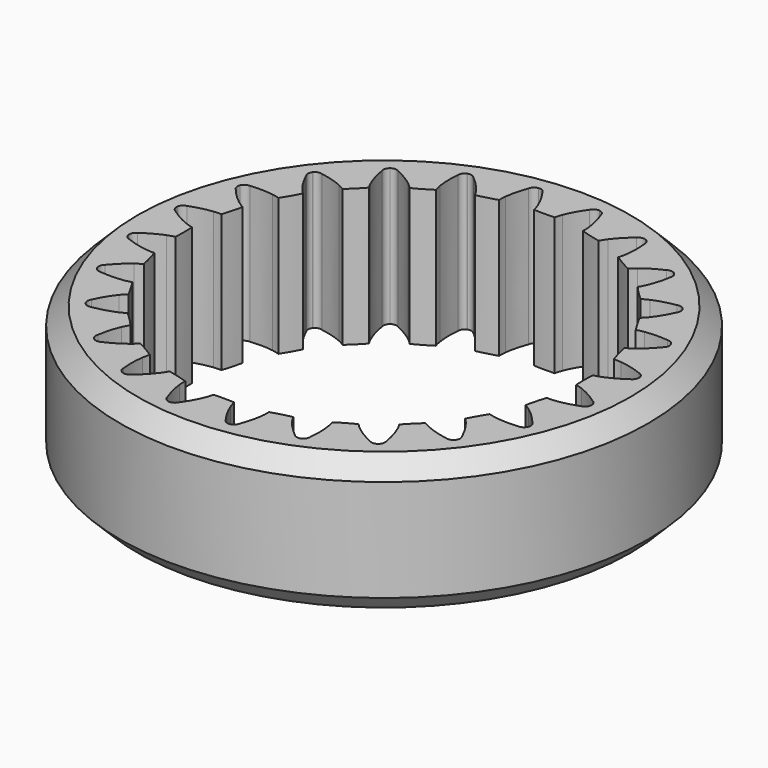
from build123d import *

# Parameters (mm, degrees)
SKETCH_R        = 15
PAD_DEPTH       = 7.8
POCKET_DEPTH    = 7.801
CHAMFER_SIZE    = 1
CHAMFER001_SIZE = 1


with BuildPart() as part:
    # Sketch → Pad (new body)
    with BuildSketch(Plane.XY):
        Circle(SKETCH_R)
    extrude(amount=PAD_DEPTH)

    # InvoluteGear → Pocket (cut, through all)
    with BuildSketch(Plane.XY):
        with BuildLine():
            add(Edge.make_bspline(
                [(12.931293, -1.341913), (12.47391, -1.012998), (12.085731, -0.822377), (11.798948, -0.712675)],
                knots=[0, 0, 0, 0, 1, 1, 1, 1], degree=3))
            add(Edge.make_bspline(
                [(11.798948, -0.712675), (11.61523, -0.642556), (11.475687, -0.606588), (11.384942, -0.588276)],
                knots=[0, 0, 0, 0, 1, 1, 1, 1], degree=3))
            ThreePointArc((11.384942, -0.588276), (11.36969, -1.8e-05), (11.384813, 0.588244))
            add(Edge.make_bspline(
                [(11.384813, 0.588244), (11.475687, 0.606588), (11.61523, 0.642556), (11.798948, 0.712675)],
                knots=[0, 0, 0, 0, 1, 1, 1, 1], degree=3))
            add(Edge.make_bspline(
                [(11.798948, 0.712675), (12.085731, 0.822377), (12.47391, 1.012998), (12.931293, 1.341913)],
                knots=[0, 0, 0, 0, 1, 1, 1, 1], degree=3))
            ThreePointArc((12.931293, 1.341913), (13.095509, 1.500619), (13.137212, 1.725152))
            ThreePointArc((13.137212, 1.725152), (13.136643, 1.729472), (13.136075, 1.733792))
            ThreePointArc((13.136075, 1.733792), (13.037679, 1.939881), (12.837983, 2.050676))
            add(Edge.make_bspline(
                [(12.837983, 2.050676), (12.311055, 2.250005), (11.886766, 2.333662), (11.581362, 2.365402)],
                knots=[0, 0, 0, 0, 1, 1, 1, 1], degree=3))
            add(Edge.make_bspline(
                [(11.581362, 2.365402), (11.385756, 2.385581), (11.241659, 2.384207), (11.149267, 2.378408)],
                knots=[0, 0, 0, 0, 1, 1, 1, 1], degree=3))
            ThreePointArc((11.149267, 2.378408), (10.982282, 2.942675), (10.844636, 3.514806))
            add(Edge.make_bspline(
                [(10.844636, 3.514806), (10.927666, 3.556045), (11.053145, 3.626905), (11.212455, 3.742183)],
                knots=[0, 0, 0, 0, 1, 1, 1, 1], degree=3))
            add(Edge.make_bspline(
                [(11.212455, 3.742183), (11.461072, 3.922373), (11.786688, 4.206966), (12.143358, 4.643054)],
                knots=[0, 0, 0, 0, 1, 1, 1, 1], degree=3))
            ThreePointArc((12.143358, 4.643054), (12.260902, 4.838854), (12.243071, 5.066529))
            ThreePointArc((12.243071, 5.066529), (12.241402, 5.070555), (12.239736, 5.074581))
            ThreePointArc((12.239736, 5.074581), (12.091353, 5.248181), (11.869785, 5.303516))
            add(Edge.make_bspline(
                [(11.869785, 5.303516), (11.309222, 5.359673), (10.877738, 5.330666), (10.574526, 5.28228)],
                knots=[0, 0, 0, 0, 1, 1, 1, 1], degree=3))
            add(Edge.make_bspline(
                [(10.574526, 5.28228), (10.380362, 5.251145), (10.24153, 5.212523), (10.153787, 5.183009)],
                knots=[0, 0, 0, 0, 1, 1, 1, 1], degree=3))
            ThreePointArc((10.153787, 5.183009), (9.846449, 5.684829), (9.565415, 6.201841))
            add(Edge.make_bspline(
                [(9.565415, 6.201841), (9.634942, 6.263164), (9.737806, 6.364085), (9.861851, 6.516668)],
                knots=[0, 0, 0, 0, 1, 1, 1, 1], degree=3))
            add(Edge.make_bspline(
                [(9.861851, 6.516668), (10.055361, 6.755065), (10.296224, 7.114237), (10.527872, 7.627778)],
                knots=[0, 0, 0, 0, 1, 1, 1, 1], degree=3))
            ThreePointArc((10.527872, 7.627778), (10.590735, 7.847329), (10.514584, 8.062632))
            ThreePointArc((10.514584, 8.062632), (10.511931, 8.066088), (10.509279, 8.069545))
            ThreePointArc((10.509279, 8.069545), (10.321021, 8.198826), (10.092681, 8.194929))
            add(Edge.make_bspline(
                [(10.092681, 8.194929), (9.536684, 8.104088), (9.12741, 7.964394), (8.847053, 7.839179)],
                knots=[0, 0, 0, 0, 1, 1, 1, 1], degree=3))
            add(Edge.make_bspline(
                [(8.847053, 7.839179), (8.667564, 7.758852), (8.543458, 7.685613), (8.466344, 7.634396)],
                knots=[0, 0, 0, 0, 1, 1, 1, 1], degree=3))
            ThreePointArc((8.466344, 7.634396), (8.039598, 8.039572), (7.634327, 8.46623))
            add(Edge.make_bspline(
                [(7.634327, 8.46623), (7.685613, 8.543458), (7.758852, 8.667564), (7.839179, 8.847053)],
                knots=[0, 0, 0, 0, 1, 1, 1, 1], degree=3))
            add(Edge.make_bspline(
                [(7.839179, 8.847053), (7.964394, 9.12741), (8.104088, 9.536684), (8.194929, 10.092681)],
                knots=[0, 0, 0, 0, 1, 1, 1, 1], degree=3))
            ThreePointArc((8.194929, 10.092681), (8.198826, 10.321021), (8.069545, 10.509279))
            ThreePointArc((8.069545, 10.509279), (8.066088, 10.511931), (8.062632, 10.514584))
            ThreePointArc((8.062632, 10.514584), (7.847329, 10.590735), (7.627778, 10.527872))
            add(Edge.make_bspline(
                [(7.627778, 10.527872), (7.114237, 10.296224), (6.755065, 10.055361), (6.516668, 9.861851)],
                knots=[0, 0, 0, 0, 1, 1, 1, 1], degree=3))
            add(Edge.make_bspline(
                [(6.516668, 9.861851), (6.364085, 9.737806), (6.263164, 9.634942), (6.201933, 9.565511)],
                knots=[0, 0, 0, 0, 1, 1, 1, 1], degree=3))
            ThreePointArc((6.201933, 9.565511), (5.684861, 9.846431), (5.182973, 10.153659))
            add(Edge.make_bspline(
                [(5.182973, 10.153659), (5.212523, 10.24153), (5.251145, 10.380362), (5.28228, 10.574526)],
                knots=[0, 0, 0, 0, 1, 1, 1, 1], degree=3))
            add(Edge.make_bspline(
                [(5.28228, 10.574526), (5.330666, 10.877738), (5.359673, 11.309222), (5.303516, 11.869785)],
                knots=[0, 0, 0, 0, 1, 1, 1, 1], degree=3))
            ThreePointArc((5.303516, 11.869785), (5.248181, 12.091353), (5.074581, 12.239736))
            ThreePointArc((5.074581, 12.239736), (5.070555, 12.241402), (5.066529, 12.243071))
            ThreePointArc((5.066529, 12.243071), (4.838854, 12.260902), (4.643054, 12.143358))
            add(Edge.make_bspline(
                [(4.643054, 12.143358), (4.206966, 11.786688), (3.922373, 11.461072), (3.742183, 11.212455)],
                knots=[0, 0, 0, 0, 1, 1, 1, 1], degree=3))
            add(Edge.make_bspline(
                [(3.742183, 11.212455), (3.626905, 11.053145), (3.556045, 10.927666), (3.514871, 10.844752)],
                knots=[0, 0, 0, 0, 1, 1, 1, 1], degree=3))
            ThreePointArc((3.514871, 10.844752), (2.94271, 10.982272), (2.378407, 11.149134))
            add(Edge.make_bspline(
                [(2.378407, 11.149134), (2.384207, 11.241659), (2.385581, 11.385756), (2.365402, 11.581362)],
                knots=[0, 0, 0, 0, 1, 1, 1, 1], degree=3))
            add(Edge.make_bspline(
                [(2.365402, 11.581362), (2.333662, 11.886766), (2.250005, 12.311055), (2.050676, 12.837983)],
                knots=[0, 0, 0, 0, 1, 1, 1, 1], degree=3))
            ThreePointArc((2.050676, 12.837983), (1.939881, 13.037679), (1.733792, 13.136075))
            ThreePointArc((1.733792, 13.136075), (1.729472, 13.136643), (1.725152, 13.137212))
            ThreePointArc((1.725152, 13.137212), (1.500619, 13.095509), (1.341913, 12.931293))
            add(Edge.make_bspline(
                [(1.341913, 12.931293), (1.012998, 12.47391), (0.822377, 12.085731), (0.712675, 11.798948)],
                knots=[0, 0, 0, 0, 1, 1, 1, 1], degree=3))
            add(Edge.make_bspline(
                [(0.712675, 11.798948), (0.642556, 11.61523), (0.606588, 11.475687), (0.588276, 11.384942)],
                knots=[0, 0, 0, 0, 1, 1, 1, 1], degree=3))
            ThreePointArc((0.588276, 11.384942), (1.8e-05, 11.36969), (-0.588244, 11.384813))
            add(Edge.make_bspline(
                [(-0.588244, 11.384813), (-0.606588, 11.475687), (-0.642556, 11.61523), (-0.712675, 11.798948)],
                knots=[0, 0, 0, 0, 1, 1, 1, 1], degree=3))
            add(Edge.make_bspline(
                [(-0.712675, 11.798948), (-0.822377, 12.085731), (-1.012998, 12.47391), (-1.341913, 12.931293)],
                knots=[0, 0, 0, 0, 1, 1, 1, 1], degree=3))
            ThreePointArc((-1.341913, 12.931293), (-1.500619, 13.095509), (-1.725152, 13.137212))
            ThreePointArc((-1.725152, 13.137212), (-1.729472, 13.136643), (-1.733792, 13.136075))
            ThreePointArc((-1.733792, 13.136075), (-1.939881, 13.037679), (-2.050676, 12.837983))
            add(Edge.make_bspline(
                [(-2.050676, 12.837983), (-2.250005, 12.311055), (-2.333662, 11.886766), (-2.365402, 11.581362)],
                knots=[0, 0, 0, 0, 1, 1, 1, 1], degree=3))
            add(Edge.make_bspline(
                [(-2.365402, 11.581362), (-2.385581, 11.385756), (-2.384207, 11.241659), (-2.378408, 11.149267)],
                knots=[0, 0, 0, 0, 1, 1, 1, 1], degree=3))
            ThreePointArc((-2.378408, 11.149267), (-2.942675, 10.982282), (-3.514806, 10.844636))
            add(Edge.make_bspline(
                [(-3.514806, 10.844636), (-3.556045, 10.927666), (-3.626905, 11.053145), (-3.742183, 11.212455)],
                knots=[0, 0, 0, 0, 1, 1, 1, 1], degree=3))
            add(Edge.make_bspline(
                [(-3.742183, 11.212455), (-3.922373, 11.461072), (-4.206966, 11.786688), (-4.643054, 12.143358)],
                knots=[0, 0, 0, 0, 1, 1, 1, 1], degree=3))
            ThreePointArc((-4.643054, 12.143358), (-4.838854, 12.260902), (-5.066529, 12.243071))
            ThreePointArc((-5.066529, 12.243071), (-5.070555, 12.241402), (-5.074581, 12.239736))
            ThreePointArc((-5.074581, 12.239736), (-5.248181, 12.091353), (-5.303516, 11.869785))
            add(Edge.make_bspline(
                [(-5.303516, 11.869785), (-5.359673, 11.309222), (-5.330666, 10.877738), (-5.28228, 10.574526)],
                knots=[0, 0, 0, 0, 1, 1, 1, 1], degree=3))
            add(Edge.make_bspline(
                [(-5.28228, 10.574526), (-5.251145, 10.380362), (-5.212523, 10.24153), (-5.183009, 10.153787)],
                knots=[0, 0, 0, 0, 1, 1, 1, 1], degree=3))
            ThreePointArc((-5.183009, 10.153787), (-5.684829, 9.846449), (-6.201841, 9.565415))
            add(Edge.make_bspline(
                [(-6.201841, 9.565415), (-6.263164, 9.634942), (-6.364085, 9.737806), (-6.516668, 9.861851)],
                knots=[0, 0, 0, 0, 1, 1, 1, 1], degree=3))
            add(Edge.make_bspline(
                [(-6.516668, 9.861851), (-6.755065, 10.055361), (-7.114237, 10.296224), (-7.627778, 10.527872)],
                knots=[0, 0, 0, 0, 1, 1, 1, 1], degree=3))
            ThreePointArc((-7.627778, 10.527872), (-7.847329, 10.590735), (-8.062632, 10.514584))
            ThreePointArc((-8.062632, 10.514584), (-8.066088, 10.511931), (-8.069545, 10.509279))
            ThreePointArc((-8.069545, 10.509279), (-8.198826, 10.321021), (-8.194929, 10.092681))
            add(Edge.make_bspline(
                [(-8.194929, 10.092681), (-8.104088, 9.536684), (-7.964394, 9.12741), (-7.839179, 8.847053)],
                knots=[0, 0, 0, 0, 1, 1, 1, 1], degree=3))
            add(Edge.make_bspline(
                [(-7.839179, 8.847053), (-7.758852, 8.667564), (-7.685613, 8.543458), (-7.634396, 8.466344)],
                knots=[0, 0, 0, 0, 1, 1, 1, 1], degree=3))
            ThreePointArc((-7.634396, 8.466344), (-8.039572, 8.039598), (-8.46623, 7.634327))
            add(Edge.make_bspline(
                [(-8.46623, 7.634327), (-8.543458, 7.685613), (-8.667564, 7.758852), (-8.847053, 7.839179)],
                knots=[0, 0, 0, 0, 1, 1, 1, 1], degree=3))
            add(Edge.make_bspline(
                [(-8.847053, 7.839179), (-9.12741, 7.964394), (-9.536684, 8.104088), (-10.092681, 8.194929)],
                knots=[0, 0, 0, 0, 1, 1, 1, 1], degree=3))
            ThreePointArc((-10.092681, 8.194929), (-10.321021, 8.198826), (-10.509279, 8.069545))
            ThreePointArc((-10.509279, 8.069545), (-10.511931, 8.066088), (-10.514584, 8.062632))
            ThreePointArc((-10.514584, 8.062632), (-10.590735, 7.847329), (-10.527872, 7.627778))
            add(Edge.make_bspline(
                [(-10.527872, 7.627778), (-10.296224, 7.114237), (-10.055361, 6.755065), (-9.861851, 6.516668)],
                knots=[0, 0, 0, 0, 1, 1, 1, 1], degree=3))
            add(Edge.make_bspline(
                [(-9.861851, 6.516668), (-9.737806, 6.364085), (-9.634942, 6.263164), (-9.565511, 6.201933)],
                knots=[0, 0, 0, 0, 1, 1, 1, 1], degree=3))
            ThreePointArc((-9.565511, 6.201933), (-9.846431, 5.684861), (-10.153659, 5.182973))
            add(Edge.make_bspline(
                [(-10.153659, 5.182973), (-10.24153, 5.212523), (-10.380362, 5.251145), (-10.574526, 5.28228)],
                knots=[0, 0, 0, 0, 1, 1, 1, 1], degree=3))
            add(Edge.make_bspline(
                [(-10.574526, 5.28228), (-10.877738, 5.330666), (-11.309222, 5.359673), (-11.869785, 5.303516)],
                knots=[0, 0, 0, 0, 1, 1, 1, 1], degree=3))
            ThreePointArc((-11.869785, 5.303516), (-12.091353, 5.248181), (-12.239736, 5.074581))
            ThreePointArc((-12.239736, 5.074581), (-12.241402, 5.070555), (-12.243071, 5.066529))
            ThreePointArc((-12.243071, 5.066529), (-12.260902, 4.838854), (-12.143358, 4.643054))
            add(Edge.make_bspline(
                [(-12.143358, 4.643054), (-11.786688, 4.206966), (-11.461072, 3.922373), (-11.212455, 3.742183)],
                knots=[0, 0, 0, 0, 1, 1, 1, 1], degree=3))
            add(Edge.make_bspline(
                [(-11.212455, 3.742183), (-11.053145, 3.626905), (-10.927666, 3.556045), (-10.844752, 3.514871)],
                knots=[0, 0, 0, 0, 1, 1, 1, 1], degree=3))
            ThreePointArc((-10.844752, 3.514871), (-10.982272, 2.94271), (-11.149134, 2.378407))
            add(Edge.make_bspline(
                [(-11.149134, 2.378407), (-11.241659, 2.384207), (-11.385756, 2.385581), (-11.581362, 2.365402)],
                knots=[0, 0, 0, 0, 1, 1, 1, 1], degree=3))
            add(Edge.make_bspline(
                [(-11.581362, 2.365402), (-11.886766, 2.333662), (-12.311055, 2.250005), (-12.837983, 2.050676)],
                knots=[0, 0, 0, 0, 1, 1, 1, 1], degree=3))
            ThreePointArc((-12.837983, 2.050676), (-13.037679, 1.939881), (-13.136075, 1.733792))
            ThreePointArc((-13.136075, 1.733792), (-13.136643, 1.729472), (-13.137212, 1.725152))
            ThreePointArc((-13.137212, 1.725152), (-13.095509, 1.500619), (-12.931293, 1.341913))
            add(Edge.make_bspline(
                [(-12.931293, 1.341913), (-12.47391, 1.012998), (-12.085731, 0.822377), (-11.798948, 0.712675)],
                knots=[0, 0, 0, 0, 1, 1, 1, 1], degree=3))
            add(Edge.make_bspline(
                [(-11.798948, 0.712675), (-11.61523, 0.642556), (-11.475687, 0.606588), (-11.384942, 0.588276)],
                knots=[0, 0, 0, 0, 1, 1, 1, 1], degree=3))
            ThreePointArc((-11.384942, 0.588276), (-11.36969, 1.8e-05), (-11.384813, -0.588244))
            add(Edge.make_bspline(
                [(-11.384813, -0.588244), (-11.475687, -0.606588), (-11.61523, -0.642556), (-11.798948, -0.712675)],
                knots=[0, 0, 0, 0, 1, 1, 1, 1], degree=3))
            add(Edge.make_bspline(
                [(-11.798948, -0.712675), (-12.085731, -0.822377), (-12.47391, -1.012998), (-12.931293, -1.341913)],
                knots=[0, 0, 0, 0, 1, 1, 1, 1], degree=3))
            ThreePointArc((-12.931293, -1.341913), (-13.095509, -1.500619), (-13.137212, -1.725152))
            ThreePointArc((-13.137212, -1.725152), (-13.136643, -1.729472), (-13.136075, -1.733792))
            ThreePointArc((-13.136075, -1.733792), (-13.037679, -1.939881), (-12.837983, -2.050676))
            add(Edge.make_bspline(
                [(-12.837983, -2.050676), (-12.311055, -2.250005), (-11.886766, -2.333662), (-11.581362, -2.365402)],
                knots=[0, 0, 0, 0, 1, 1, 1, 1], degree=3))
            add(Edge.make_bspline(
                [(-11.581362, -2.365402), (-11.385756, -2.385581), (-11.241659, -2.384207), (-11.149267, -2.378408)],
                knots=[0, 0, 0, 0, 1, 1, 1, 1], degree=3))
            ThreePointArc((-11.149267, -2.378408), (-10.982282, -2.942675), (-10.844636, -3.514806))
            add(Edge.make_bspline(
                [(-10.844636, -3.514806), (-10.927666, -3.556045), (-11.053145, -3.626905), (-11.212455, -3.742183)],
                knots=[0, 0, 0, 0, 1, 1, 1, 1], degree=3))
            add(Edge.make_bspline(
                [(-11.212455, -3.742183), (-11.461072, -3.922373), (-11.786688, -4.206966), (-12.143358, -4.643054)],
                knots=[0, 0, 0, 0, 1, 1, 1, 1], degree=3))
            ThreePointArc((-12.143358, -4.643054), (-12.260902, -4.838854), (-12.243071, -5.066529))
            ThreePointArc((-12.243071, -5.066529), (-12.241402, -5.070555), (-12.239736, -5.074581))
            ThreePointArc((-12.239736, -5.074581), (-12.091353, -5.248181), (-11.869785, -5.303516))
            add(Edge.make_bspline(
                [(-11.869785, -5.303516), (-11.309222, -5.359673), (-10.877738, -5.330666), (-10.574526, -5.28228)],
                knots=[0, 0, 0, 0, 1, 1, 1, 1], degree=3))
            add(Edge.make_bspline(
                [(-10.574526, -5.28228), (-10.380362, -5.251145), (-10.24153, -5.212523), (-10.153787, -5.183009)],
                knots=[0, 0, 0, 0, 1, 1, 1, 1], degree=3))
            ThreePointArc((-10.153787, -5.183009), (-9.846449, -5.684829), (-9.565415, -6.201841))
            add(Edge.make_bspline(
                [(-9.565415, -6.201841), (-9.634942, -6.263164), (-9.737806, -6.364085), (-9.861851, -6.516668)],
                knots=[0, 0, 0, 0, 1, 1, 1, 1], degree=3))
            add(Edge.make_bspline(
                [(-9.861851, -6.516668), (-10.055361, -6.755065), (-10.296224, -7.114237), (-10.527872, -7.627778)],
                knots=[0, 0, 0, 0, 1, 1, 1, 1], degree=3))
            ThreePointArc((-10.527872, -7.627778), (-10.590735, -7.847329), (-10.514584, -8.062632))
            ThreePointArc((-10.514584, -8.062632), (-10.511931, -8.066088), (-10.509279, -8.069545))
            ThreePointArc((-10.509279, -8.069545), (-10.321021, -8.198826), (-10.092681, -8.194929))
            add(Edge.make_bspline(
                [(-10.092681, -8.194929), (-9.536684, -8.104088), (-9.12741, -7.964394), (-8.847053, -7.839179)],
                knots=[0, 0, 0, 0, 1, 1, 1, 1], degree=3))
            add(Edge.make_bspline(
                [(-8.847053, -7.839179), (-8.667564, -7.758852), (-8.543458, -7.685613), (-8.466344, -7.634396)],
                knots=[0, 0, 0, 0, 1, 1, 1, 1], degree=3))
            ThreePointArc((-8.466344, -7.634396), (-8.039598, -8.039572), (-7.634327, -8.46623))
            add(Edge.make_bspline(
                [(-7.634327, -8.46623), (-7.685613, -8.543458), (-7.758852, -8.667564), (-7.839179, -8.847053)],
                knots=[0, 0, 0, 0, 1, 1, 1, 1], degree=3))
            add(Edge.make_bspline(
                [(-7.839179, -8.847053), (-7.964394, -9.12741), (-8.104088, -9.536684), (-8.194929, -10.092681)],
                knots=[0, 0, 0, 0, 1, 1, 1, 1], degree=3))
            ThreePointArc((-8.194929, -10.092681), (-8.198826, -10.321021), (-8.069545, -10.509279))
            ThreePointArc((-8.069545, -10.509279), (-8.066088, -10.511931), (-8.062632, -10.514584))
            ThreePointArc((-8.062632, -10.514584), (-7.847329, -10.590735), (-7.627778, -10.527872))
            add(Edge.make_bspline(
                [(-7.627778, -10.527872), (-7.114237, -10.296224), (-6.755065, -10.055361), (-6.516668, -9.861851)],
                knots=[0, 0, 0, 0, 1, 1, 1, 1], degree=3))
            add(Edge.make_bspline(
                [(-6.516668, -9.861851), (-6.364085, -9.737806), (-6.263164, -9.634942), (-6.201933, -9.565511)],
                knots=[0, 0, 0, 0, 1, 1, 1, 1], degree=3))
            ThreePointArc((-6.201933, -9.565511), (-5.684861, -9.846431), (-5.182973, -10.153659))
            add(Edge.make_bspline(
                [(-5.182973, -10.153659), (-5.212523, -10.24153), (-5.251145, -10.380362), (-5.28228, -10.574526)],
                knots=[0, 0, 0, 0, 1, 1, 1, 1], degree=3))
            add(Edge.make_bspline(
                [(-5.28228, -10.574526), (-5.330666, -10.877738), (-5.359673, -11.309222), (-5.303516, -11.869785)],
                knots=[0, 0, 0, 0, 1, 1, 1, 1], degree=3))
            ThreePointArc((-5.303516, -11.869785), (-5.248181, -12.091353), (-5.074581, -12.239736))
            ThreePointArc((-5.074581, -12.239736), (-5.070555, -12.241402), (-5.066529, -12.243071))
            ThreePointArc((-5.066529, -12.243071), (-4.838854, -12.260902), (-4.643054, -12.143358))
            add(Edge.make_bspline(
                [(-4.643054, -12.143358), (-4.206966, -11.786688), (-3.922373, -11.461072), (-3.742183, -11.212455)],
                knots=[0, 0, 0, 0, 1, 1, 1, 1], degree=3))
            add(Edge.make_bspline(
                [(-3.742183, -11.212455), (-3.626905, -11.053145), (-3.556045, -10.927666), (-3.514871, -10.844752)],
                knots=[0, 0, 0, 0, 1, 1, 1, 1], degree=3))
            ThreePointArc((-3.514871, -10.844752), (-2.94271, -10.982272), (-2.378407, -11.149134))
            add(Edge.make_bspline(
                [(-2.378407, -11.149134), (-2.384207, -11.241659), (-2.385581, -11.385756), (-2.365402, -11.581362)],
                knots=[0, 0, 0, 0, 1, 1, 1, 1], degree=3))
            add(Edge.make_bspline(
                [(-2.365402, -11.581362), (-2.333662, -11.886766), (-2.250005, -12.311055), (-2.050676, -12.837983)],
                knots=[0, 0, 0, 0, 1, 1, 1, 1], degree=3))
            ThreePointArc((-2.050676, -12.837983), (-1.939881, -13.037679), (-1.733792, -13.136075))
            ThreePointArc((-1.733792, -13.136075), (-1.729472, -13.136643), (-1.725152, -13.137212))
            ThreePointArc((-1.725152, -13.137212), (-1.500619, -13.095509), (-1.341913, -12.931293))
            add(Edge.make_bspline(
                [(-1.341913, -12.931293), (-1.012998, -12.47391), (-0.822377, -12.085731), (-0.712675, -11.798948)],
                knots=[0, 0, 0, 0, 1, 1, 1, 1], degree=3))
            add(Edge.make_bspline(
                [(-0.712675, -11.798948), (-0.642556, -11.61523), (-0.606588, -11.475687), (-0.588276, -11.384942)],
                knots=[0, 0, 0, 0, 1, 1, 1, 1], degree=3))
            ThreePointArc((-0.588276, -11.384942), (-1.8e-05, -11.36969), (0.588244, -11.384813))
            add(Edge.make_bspline(
                [(0.588244, -11.384813), (0.606588, -11.475687), (0.642556, -11.61523), (0.712675, -11.798948)],
                knots=[0, 0, 0, 0, 1, 1, 1, 1], degree=3))
            add(Edge.make_bspline(
                [(0.712675, -11.798948), (0.822377, -12.085731), (1.012998, -12.47391), (1.341913, -12.931293)],
                knots=[0, 0, 0, 0, 1, 1, 1, 1], degree=3))
            ThreePointArc((1.341913, -12.931293), (1.500619, -13.095509), (1.725152, -13.137212))
            ThreePointArc((1.725152, -13.137212), (1.729472, -13.136643), (1.733792, -13.136075))
            ThreePointArc((1.733792, -13.136075), (1.939881, -13.037679), (2.050676, -12.837983))
            add(Edge.make_bspline(
                [(2.050676, -12.837983), (2.250005, -12.311055), (2.333662, -11.886766), (2.365402, -11.581362)],
                knots=[0, 0, 0, 0, 1, 1, 1, 1], degree=3))
            add(Edge.make_bspline(
                [(2.365402, -11.581362), (2.385581, -11.385756), (2.384207, -11.241659), (2.378408, -11.149267)],
                knots=[0, 0, 0, 0, 1, 1, 1, 1], degree=3))
            ThreePointArc((2.378408, -11.149267), (2.942675, -10.982282), (3.514806, -10.844636))
            add(Edge.make_bspline(
                [(3.514806, -10.844636), (3.556045, -10.927666), (3.626905, -11.053145), (3.742183, -11.212455)],
                knots=[0, 0, 0, 0, 1, 1, 1, 1], degree=3))
            add(Edge.make_bspline(
                [(3.742183, -11.212455), (3.922373, -11.461072), (4.206966, -11.786688), (4.643054, -12.143358)],
                knots=[0, 0, 0, 0, 1, 1, 1, 1], degree=3))
            ThreePointArc((4.643054, -12.143358), (4.838854, -12.260902), (5.066529, -12.243071))
            ThreePointArc((5.066529, -12.243071), (5.070555, -12.241402), (5.074581, -12.239736))
            ThreePointArc((5.074581, -12.239736), (5.248181, -12.091353), (5.303516, -11.869785))
            add(Edge.make_bspline(
                [(5.303516, -11.869785), (5.359673, -11.309222), (5.330666, -10.877738), (5.28228, -10.574526)],
                knots=[0, 0, 0, 0, 1, 1, 1, 1], degree=3))
            add(Edge.make_bspline(
                [(5.28228, -10.574526), (5.251145, -10.380362), (5.212523, -10.24153), (5.183009, -10.153787)],
                knots=[0, 0, 0, 0, 1, 1, 1, 1], degree=3))
            ThreePointArc((5.183009, -10.153787), (5.684829, -9.846449), (6.201841, -9.565415))
            add(Edge.make_bspline(
                [(6.201841, -9.565415), (6.263164, -9.634942), (6.364085, -9.737806), (6.516668, -9.861851)],
                knots=[0, 0, 0, 0, 1, 1, 1, 1], degree=3))
            add(Edge.make_bspline(
                [(6.516668, -9.861851), (6.755065, -10.055361), (7.114237, -10.296224), (7.627778, -10.527872)],
                knots=[0, 0, 0, 0, 1, 1, 1, 1], degree=3))
            ThreePointArc((7.627778, -10.527872), (7.847329, -10.590735), (8.062632, -10.514584))
            ThreePointArc((8.062632, -10.514584), (8.066088, -10.511931), (8.069545, -10.509279))
            ThreePointArc((8.069545, -10.509279), (8.198826, -10.321021), (8.194929, -10.092681))
            add(Edge.make_bspline(
                [(8.194929, -10.092681), (8.104088, -9.536684), (7.964394, -9.12741), (7.839179, -8.847053)],
                knots=[0, 0, 0, 0, 1, 1, 1, 1], degree=3))
            add(Edge.make_bspline(
                [(7.839179, -8.847053), (7.758852, -8.667564), (7.685613, -8.543458), (7.634396, -8.466344)],
                knots=[0, 0, 0, 0, 1, 1, 1, 1], degree=3))
            ThreePointArc((7.634396, -8.466344), (8.039572, -8.039598), (8.46623, -7.634327))
            add(Edge.make_bspline(
                [(8.46623, -7.634327), (8.543458, -7.685613), (8.667564, -7.758852), (8.847053, -7.839179)],
                knots=[0, 0, 0, 0, 1, 1, 1, 1], degree=3))
            add(Edge.make_bspline(
                [(8.847053, -7.839179), (9.12741, -7.964394), (9.536684, -8.104088), (10.092681, -8.194929)],
                knots=[0, 0, 0, 0, 1, 1, 1, 1], degree=3))
            ThreePointArc((10.092681, -8.194929), (10.321021, -8.198826), (10.509279, -8.069545))
            ThreePointArc((10.509279, -8.069545), (10.511931, -8.066088), (10.514584, -8.062632))
            ThreePointArc((10.514584, -8.062632), (10.590735, -7.847329), (10.527872, -7.627778))
            add(Edge.make_bspline(
                [(10.527872, -7.627778), (10.296224, -7.114237), (10.055361, -6.755065), (9.861851, -6.516668)],
                knots=[0, 0, 0, 0, 1, 1, 1, 1], degree=3))
            add(Edge.make_bspline(
                [(9.861851, -6.516668), (9.737806, -6.364085), (9.634942, -6.263164), (9.565511, -6.201933)],
                knots=[0, 0, 0, 0, 1, 1, 1, 1], degree=3))
            ThreePointArc((9.565511, -6.201933), (9.846431, -5.684861), (10.153659, -5.182973))
            add(Edge.make_bspline(
                [(10.153659, -5.182973), (10.24153, -5.212523), (10.380362, -5.251145), (10.574526, -5.28228)],
                knots=[0, 0, 0, 0, 1, 1, 1, 1], degree=3))
            add(Edge.make_bspline(
                [(10.574526, -5.28228), (10.877738, -5.330666), (11.309222, -5.359673), (11.869785, -5.303516)],
                knots=[0, 0, 0, 0, 1, 1, 1, 1], degree=3))
            ThreePointArc((11.869785, -5.303516), (12.091353, -5.248181), (12.239736, -5.074581))
            ThreePointArc((12.239736, -5.074581), (12.241402, -5.070555), (12.243071, -5.066529))
            ThreePointArc((12.243071, -5.066529), (12.260902, -4.838854), (12.143358, -4.643054))
            add(Edge.make_bspline(
                [(12.143358, -4.643054), (11.786688, -4.206966), (11.461072, -3.922373), (11.212455, -3.742183)],
                knots=[0, 0, 0, 0, 1, 1, 1, 1], degree=3))
            add(Edge.make_bspline(
                [(11.212455, -3.742183), (11.053145, -3.626905), (10.927666, -3.556045), (10.844752, -3.514871)],
                knots=[0, 0, 0, 0, 1, 1, 1, 1], degree=3))
            ThreePointArc((10.844752, -3.514871), (10.982272, -2.94271), (11.149134, -2.378407))
            add(Edge.make_bspline(
                [(11.149134, -2.378407), (11.241659, -2.384207), (11.385756, -2.385581), (11.581362, -2.365402)],
                knots=[0, 0, 0, 0, 1, 1, 1, 1], degree=3))
            add(Edge.make_bspline(
                [(11.581362, -2.365402), (11.886766, -2.333662), (12.311055, -2.250005), (12.837983, -2.050676)],
                knots=[0, 0, 0, 0, 1, 1, 1, 1], degree=3))
            ThreePointArc((12.837983, -2.050676), (13.037679, -1.939881), (13.136075, -1.733792))
            ThreePointArc((13.136075, -1.733792), (13.136643, -1.729472), (13.137212, -1.725152))
            ThreePointArc((13.137212, -1.725152), (13.095509, -1.500619), (12.931293, -1.341913))
        make_face()
    extrude(amount=POCKET_DEPTH, mode=Mode.SUBTRACT)

    # Chamfer
    chamfer_edges = [part.edges().sort_by_distance(p)[0] for p in [
        (-15, 0, 0),
    ]]
    chamfer(chamfer_edges, length=CHAMFER_SIZE)

    # Chamfer001
    chamfer001_edges = [part.edges().sort_by_distance(p)[0] for p in [
        (-15, 0, 7.8),
    ]]
    chamfer(chamfer001_edges, length=CHAMFER001_SIZE)


solid = part.part
